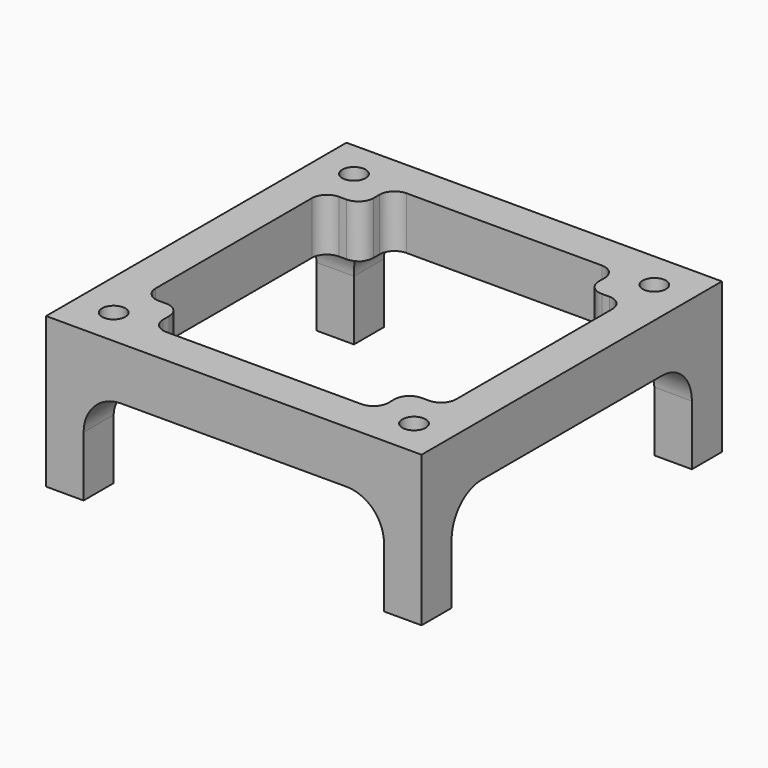
from build123d import *

# Parameters (mm, degrees)
SKETCH_W        = 50
SKETCH_H        = 50
PAD_DEPTH       = 20
POCKET_DEPTH    = 20.001
POCKET001_DEPTH = 50.001
POCKET002_DEPTH = 50.001
SKETCH009_R     = 1.55
POCKET008_DEPTH = 5


with BuildPart() as part:
    # Sketch → Pad (new body)
    with BuildSketch(Plane.XY):
        Rectangle(SKETCH_W, SKETCH_H)
    extrude(amount=PAD_DEPTH)

    # Sketch001 (on Face6 of Pad) → Pocket (cut, through all)
    with BuildSketch(Plane.XY.offset(20)):
        with BuildLine():
            Line((-18, 15), (-17, 15))
            ThreePointArc((-17, 15), (-15.585786, 15.585786), (-15, 17))
            Line((-15, 17), (-15, 18))
            ThreePointArc((-13, 20), (-14.414214, 19.414214), (-15, 18))
            Line((-13, 20), (13, 20))
            ThreePointArc((15, 18), (14.414214, 19.414214), (13, 20))
            Line((15, 18), (15, 17))
            ThreePointArc((15, 17), (15.585786, 15.585786), (17, 15))
            Line((17, 15), (18, 15))
            ThreePointArc((20, 13), (19.414214, 14.414214), (18, 15))
            Line((20, 13), (20, -13))
            ThreePointArc((18, -15), (19.414214, -14.414214), (20, -13))
            Line((18, -15), (17, -15))
            ThreePointArc((17, -15), (15.585786, -15.585786), (15, -17))
            Line((15, -17), (15, -18))
            ThreePointArc((13, -20), (14.414214, -19.414214), (15, -18))
            Line((13, -20), (-13, -20))
            ThreePointArc((-15, -18), (-14.414214, -19.414214), (-13, -20))
            Line((-15, -18), (-15, -17))
            ThreePointArc((-15, -17), (-15.585786, -15.585786), (-17, -15))
            Line((-17, -15), (-18, -15))
            ThreePointArc((-20, -13), (-19.414214, -14.414214), (-18, -15))
            Line((-20, -13), (-20, 13))
            ThreePointArc((-18, 15), (-19.414214, 14.414214), (-20, 13))
        make_face()
    extrude(amount=-POCKET_DEPTH, mode=Mode.SUBTRACT)

    # Sketch002 (on Face3 of Pocket) → Pocket001 (cut, through all)
    with BuildSketch(Plane.YZ.offset(25)):
        with BuildLine():
            Line((-15, 13), (15, 13))
            ThreePointArc((20, 8), (18.535534, 11.535534), (15, 13))
            Line((20, 8), (20, 0))
            Line((20, 0), (-20, 0))
            Line((-20, 0), (-20, 8))
            ThreePointArc((-15, 13), (-18.535534, 11.535534), (-20, 8))
        make_face()
    extrude(amount=-POCKET001_DEPTH, mode=Mode.SUBTRACT)

    # Sketch003 (on Face6 of Pocket) → Pocket002 (cut, through all)
    with BuildSketch(Plane.XZ.offset(25)):
        with BuildLine():
            Line((-15, 13), (15, 13))
            ThreePointArc((20, 8), (18.535534, 11.535534), (15, 13))
            Line((20, 8), (20, 0))
            Line((20, 0), (-20, 0))
            Line((-20, 0), (-20, 8))
            ThreePointArc((-15, 13), (-18.535534, 11.535534), (-20, 8))
        make_face()
    extrude(amount=-POCKET002_DEPTH, mode=Mode.SUBTRACT)

    # Sketch009 → Pocket008 (cut)
    with BuildSketch(Plane.XY.offset(20)):
        with Locations((-20, 20)):
            Circle(SKETCH009_R)
        with Locations((20, 20)):
            Circle(SKETCH009_R)
        with Locations((20, -20)):
            Circle(SKETCH009_R)
        with Locations((-20, -20)):
            Circle(SKETCH009_R)
    extrude(amount=-POCKET008_DEPTH, mode=Mode.SUBTRACT)


solid = part.part
